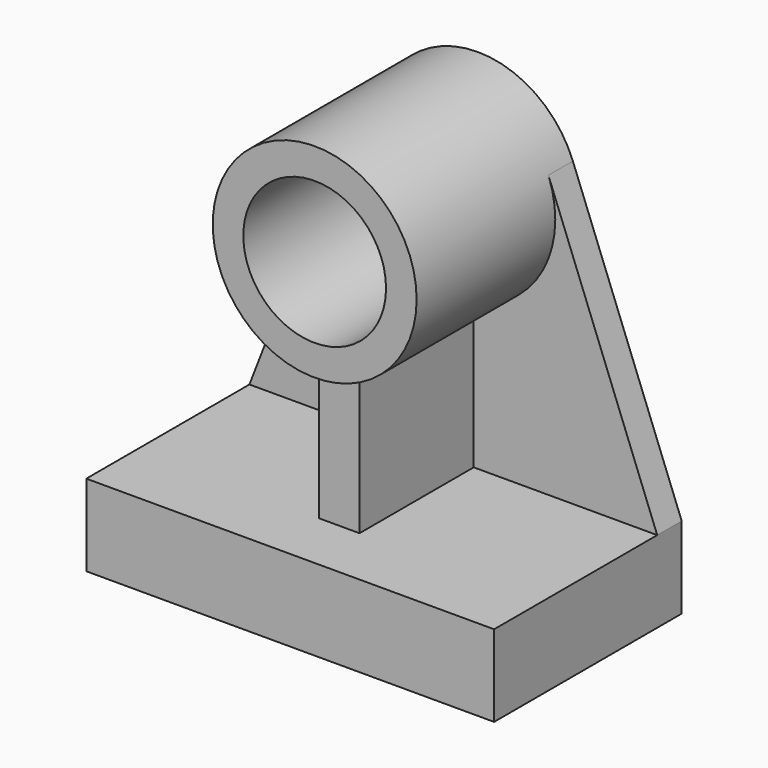
from build123d import *

# Parameters (mm, degrees)
F0_R     = 44.45
F1_DEPTH = 19.05
F2_R     = 63.5
F2_R_2   = 44.45
F3_DEPTH = 107.95
F4_W     = 254
F4_H     = 50.8
F5_DEPTH = 127
F6_W     = 25.4
F6_H     = 99.06
F7_DEPTH = 88.9


with BuildPart() as f1:
    # F0 (on Front) → F1 (new body)
    with BuildSketch(Plane.XZ):
        with BuildLine():
            Line((127, -152.4), (59.227747, 22.898122))
            ThreePointArc((59.227747, 22.898122), (0, 63.5), (-59.227747, 22.898122))
            Line((-59.227747, 22.898122), (-127, -152.4))
            Line((-127, -152.4), (-127, -203.2))
            Line((-127, -203.2), (127, -203.2))
            Line((127, -203.2), (127, -152.4))
        make_face()
        Circle(F0_R, mode=Mode.SUBTRACT)
    extrude(amount=F1_DEPTH)

    # F2 (on face) → F3 (join)
    with BuildSketch(Plane.XZ.offset(19.05)):
        Circle(F2_R)
        Circle(F2_R_2, mode=Mode.SUBTRACT)
    extrude(amount=F3_DEPTH)

    # F4 (on face) → F5 (join)
    with BuildSketch(Plane.XZ.offset(19.05)):
        with Locations((0, -177.8)):
            Rectangle(F4_W, F4_H)
    extrude(amount=F5_DEPTH)

    # F6 (on face) → F7 (join)
    with BuildSketch(Plane.XZ.offset(19.05)):
        with Locations((0, -102.87)):
            Rectangle(F6_W, F6_H)
    extrude(amount=F7_DEPTH)


solid = f1.part
